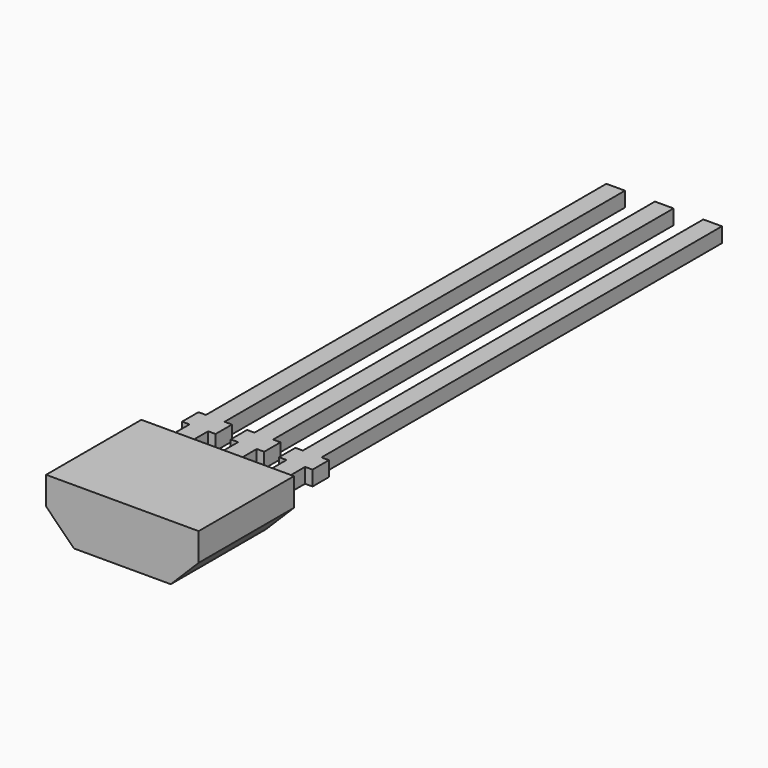
from build123d import *

# Parameters (mm, degrees)
F1_DEPTH = 3.2
F3_DEPTH = 0.4


with BuildPart() as f1:
    # F0 (on Front) → F1 (new body)
    with BuildSketch(Plane.XZ):
        Polygon((2.05, 0.75), (-2.05, 0.75), (-2.05, 0), (-1.3, -0.75), (1.3, -0.75), (2.05, 0), align=None)
    extrude(amount=F1_DEPTH)

    # F2 (on Top) → F3 (join)
    with BuildSketch(Plane.XY):
        Polygon((-0.25, 0), (0.25, 0), (0.25, 1), (0.45, 1), (0.45, 1.55), (0.25, 1.55), (0.25, 15), (-0.25, 15), (-0.25, 1.55), (-0.45, 1.55), (-0.45, 1), (-0.25, 1), align=None)
        Polygon((1.05, 0), (1.55, 0), (1.55, 1), (1.75, 1), (1.75, 1.55), (1.55, 1.55), (1.55, 15), (1.05, 15), (1.05, 1.55), (0.85, 1.55), (0.85, 1), (1.05, 1), align=None)
        Polygon((-1.549984, 0.993484), (-1.549984, -0.006516), (-1.049984, -0.006516), (-1.049984, 0.993484), (-0.849984, 0.993484), (-0.849984, 1.543484), (-1.049984, 1.543484), (-1.049984, 14.993484), (-1.549984, 14.993484), (-1.549984, 1.543484), (-1.749984, 1.543484), (-1.749984, 0.993484), align=None)
    extrude(amount=F3_DEPTH)


solid = f1.part
